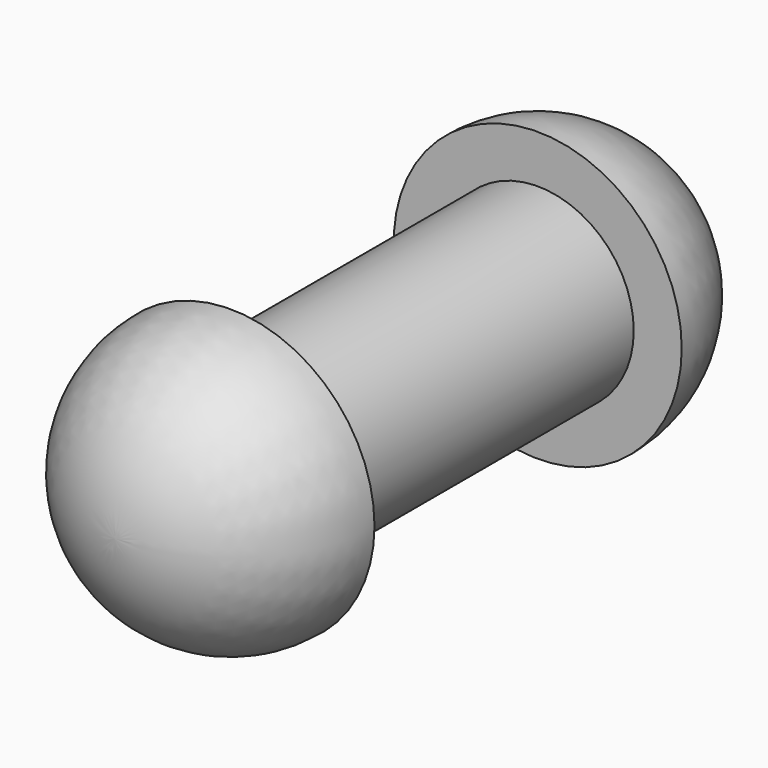
from build123d import *

# Parameters (mm, degrees)
F0_R     = 1
F1_DEPTH = 2


with BuildPart() as f1:
    # F0 (on Front) → F1 (new body, symmetric)
    with BuildSketch(Plane.XZ):
        Circle(F0_R)
    extrude(amount=F1_DEPTH, both=True)

    # F2 (on Top) → F3 (revolve)
    with BuildSketch(Plane.XY):
        with BuildLine():
            Line((0, 2), (1.5, 2))
            ThreePointArc((1.5, 2), (1.06066, 3.06066), (0, 3.5))
            Line((0, 3.5), (0, 2))
        make_face()
    revolve(axis=Axis((0, 2.75, 0), (0, 1, 0)))

    # F4: F1 across plane


with BuildPart() as f1_1:
    add(f1.part)
    add(f1.part.mirror(Plane.XZ))


solid = f1_1.part
